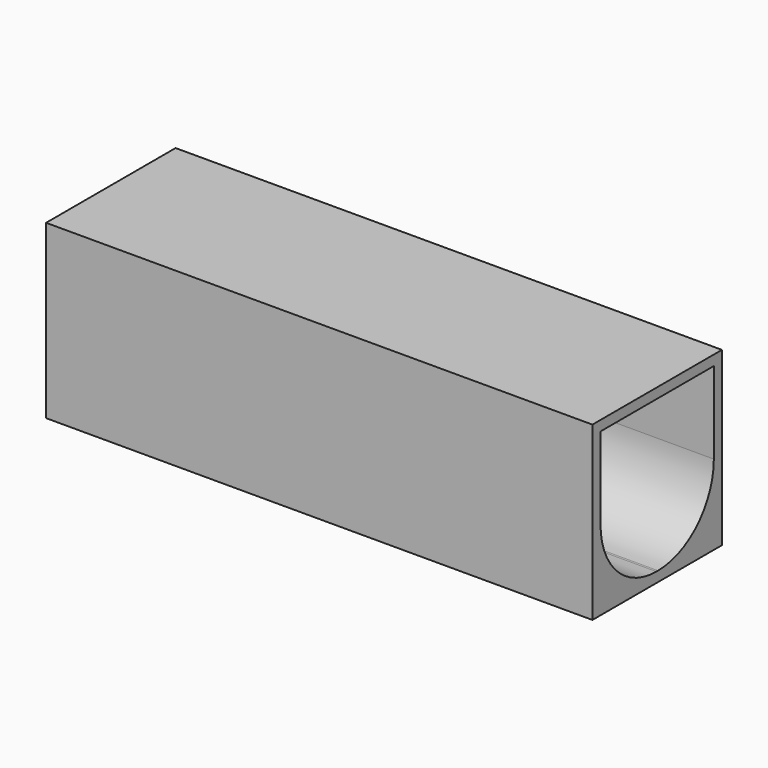
from build123d import *

# Parameters (mm, degrees)
BOX031_W     = 54
BOX031_H     = 14
BOX031_DEPTH = 15
BOX022_W     = 54
BOX022_H     = 16
BOX022_DEPTH = 17
FILLET_R     = 6.9
FILLET001_R  = 6.9


with BuildPart() as obj1:
    # Box031 → Box031 (new body)
    with BuildSketch(Plane(origin=(-9, 0, -21), x_dir=(1, 0, 0), z_dir=(0, 0, 1))):
        with Locations((27, 7)):
            Rectangle(BOX031_W, BOX031_H)
    extrude(amount=BOX031_DEPTH)


with BuildPart() as fillet001:
    # Box022 → Box022 (new body)
    with BuildSketch(Plane(origin=(-10, -1, -22), x_dir=(1, 0, 0), z_dir=(0, 0, 1))):
        with Locations((27, 8)):
            Rectangle(BOX022_W, BOX022_H)
    extrude(amount=BOX022_DEPTH)

    # Cut: cut obj1
    add(obj1.part, mode=Mode.SUBTRACT)

    # Fillet
    fillet_edges = [fillet001.edges().sort_by_distance(p)[0] for p in [
        (17.5, 0, -21),
    ]]
    fillet(fillet_edges, radius=FILLET_R)

    # Fillet001
    fillet001_edges = [fillet001.edges().sort_by_distance(p)[0] for p in [
        (17.5, 14, -21),
    ]]
    fillet(fillet001_edges, radius=FILLET001_R)


solid = fillet001.part
